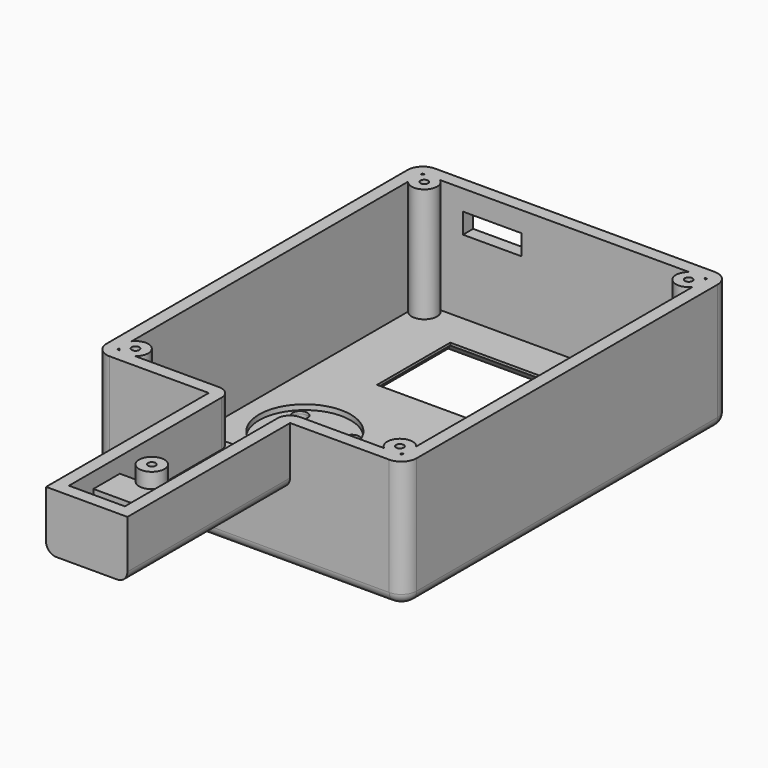
from build123d import *

# Parameters (mm, degrees)
PAD002_DEPTH        = 25
THICKNESS_T         = -2.5
SKETCH003_W         = 33
SKETCH003_H         = 18
POCKET_DEPTH        = 5
CHAMFER_SIZE        = 2
SKETCH004_W         = 19
SKETCH004_H         = 12.5
POCKET001_DEPTH     = 5
SKETCH005_R         = 2
POCKET002_DEPTH     = 5
SKETCH006_W         = 11.5
SKETCH006_H         = 4
POCKET003_DEPTH     = 5
SKETCH007_R         = 8.75
POCKET004_DEPTH     = 1
SKETCH011_W         = 40
SKETCH011_H         = 16
POCKET005_DEPTH     = 38.501
SKETCH012_W         = 16
SKETCH012_H         = 40
PAD005_DEPTH        = 2.5
SKETCH013_W         = 16
SKETCH013_H         = 13.5
PAD006_DEPTH        = 2.5
PAD007_DEPTH        = 2.5
SKETCH014_W         = 11
SKETCH014_H         = 6
POCKET006_DEPTH     = 2.5
SKETCH015_W         = 11
SKETCH015_H         = 2.5
PAD008_DEPTH        = 6
SKETCH016_R         = 2.5
PAD009_DEPTH        = 22.5
SKETCH017_R         = 0.75
POCKET007_DEPTH     = 18
SKETCH018_R         = 2.5
SKETCH018_R_2       = 0.75
PAD010_DEPTH        = 9
FILLET001_R         = 3
FILLET002_R         = 3
FILLET003_R         = 3
FILLET005_R         = 2
SKETCH020_R         = 1.45
POCKET009_DEPTH     = 5
FILLET006_R         = 2
FILLET006_FACE100_W = 11
FILLET006_FACE100_H = 6
PAD011_DEPTH        = 4
PAD011_FACE78_R     = 8.75
PAD011_FACE78_R_2   = 1.45
PAD012_DEPTH        = 1
SKETCH021_R         = 9
POCKET010_DEPTH     = 1


with BuildPart() as part:
    # Sketch002 → Pad002 (new body)
    with BuildSketch(Plane.XY):
        Polygon((-10, 80), (-71, 80), (-71, 0), (-48.5, 0), (-48.5, -40), (-32.5, -40), (-32.5, 0), (-10, 0), align=None)
    extrude(amount=PAD002_DEPTH)

    # Thickness
    thickness_openings = [part.faces().sort_by_distance(p)[0] for p in [
        (-40.5, 33.043478, 25),
    ]]
    offset(amount=THICKNESS_T, openings=thickness_openings)

    # Sketch003 (on Face9 of Thickness) → Pocket (cut)
    with BuildSketch(Plane(origin=(0, 0, 0), x_dir=(1, 0, 0), z_dir=(0, 0, -1))):
        with Locations((-40.5, -61)):
            Rectangle(SKETCH003_W, SKETCH003_H)
    extrude(amount=-POCKET_DEPTH, mode=Mode.SUBTRACT)

    # Chamfer
    chamfer_edges = [part.edges().sort_by_distance(p)[0] for p in [
        (-40.5, 70, 0),
        (-57, 61, 0),
        (-40.5, 52, 0),
        (-24, 61, 0),
    ]]
    chamfer(chamfer_edges, length=CHAMFER_SIZE)

    # Sketch004 (on Face1 of Chamfer) → Pocket001 (cut)
    with BuildSketch(Plane(origin=(0, 0, 0), x_dir=(1, 0, 0), z_dir=(0, 0, -1))):
        with Locations((-29.5, -11.25)):
            Rectangle(SKETCH004_W, SKETCH004_H)
    extrude(amount=-POCKET001_DEPTH, mode=Mode.SUBTRACT)

    # Sketch005 (on Face1 of Pocket001) → Pocket002 (cut)
    with BuildSketch(Plane(origin=(0, 0, 0), x_dir=(1, 0, 0), z_dir=(0, 0, -1))):
        with Locations((-56, -12)):
            Circle(SKETCH005_R)
    extrude(amount=-POCKET002_DEPTH, mode=Mode.SUBTRACT)

    # Sketch006 (on Face26 of Pocket002) → Pocket003 (cut)
    with BuildSketch(Plane.XZ.offset(-77.5)):
        with Locations((-54.75, 19)):
            Rectangle(SKETCH006_W, SKETCH006_H)
    extrude(amount=-POCKET003_DEPTH, mode=Mode.SUBTRACT)

    # Sketch007 (on Face1 of Pocket003) → Pocket004 (cut)
    with BuildSketch(Plane(origin=(0, 0, 0), x_dir=(1, 0, 0), z_dir=(0, 0, -1))):
        with Locations((-56, -33)):
            Circle(SKETCH007_R)
    extrude(amount=-POCKET004_DEPTH, mode=Mode.SUBTRACT)

    # Sketch011 (on Face8 of Pocket004) → Pocket005 (cut, through all)
    with BuildSketch(Plane(origin=(-48.5, 0, 0), x_dir=(0, -1, 0), z_dir=(-1, 0, 0))):
        with Locations((20, 8)):
            Rectangle(SKETCH011_W, SKETCH011_H)
    extrude(amount=-POCKET005_DEPTH, mode=Mode.SUBTRACT)

    # Sketch012 (on Face20 of Pocket005) → Pad005 (join)
    with BuildSketch(Plane(origin=(0, 0, 16), x_dir=(1, 0, 0), z_dir=(0, 0, -1))):
        with Locations((-40.5, 20)):
            Rectangle(SKETCH012_W, SKETCH012_H)
    extrude(amount=PAD005_DEPTH)

    # Sketch013 (on Face4 of Pad005) → Pad006 (join)
    with BuildSketch(Plane.XZ):
        with Locations((-40.5, 6.75)):
            Rectangle(SKETCH013_W, SKETCH013_H)
    extrude(amount=-PAD006_DEPTH)

    # Pad006 Face50 → Pad007 (add)
    with BuildSketch(Plane(origin=(-40.5, 1.311465, 13.5), x_dir=(0, 1, 0), z_dir=(0, 0, 1))):
        with BuildLine():
            ThreePointArc((1.188535, 8), (0.456302, 6.232233), (-1.311465, 5.5))
            Line((-1.311465, 5.5), (-1.311465, -5.5))
            ThreePointArc((-1.311465, -5.5), (0.456302, -6.232233), (1.188535, -8))
            Line((1.188535, -8), (1.188535, 8))
        make_face()
    extrude(amount=PAD007_DEPTH)

    # Sketch014 (on Face35 of Pad007) → Pocket006 (cut)
    with BuildSketch(Plane(origin=(0, 0, 13.5), x_dir=(1, 0, 0), z_dir=(0, 0, -1))):
        with Locations((-40.5, 34.5)):
            Rectangle(SKETCH014_W, SKETCH014_H)
    extrude(amount=-POCKET006_DEPTH, mode=Mode.SUBTRACT)

    # Sketch015 (on Face56 of Pocket006) → Pad008 (join)
    with BuildSketch(Plane.XY.offset(16)):
        with Locations((-40.5, -30.25)):
            Rectangle(SKETCH015_W, SKETCH015_H)
    extrude(amount=PAD008_DEPTH)

    # Sketch016 (on Face28 of Pad008) → Pad009 (join)
    with BuildSketch(Plane.XY.offset(2.5)):
        with Locations((-66.5, 75.5)):
            Circle(SKETCH016_R)
        with Locations((-14.5, 75.5)):
            Circle(SKETCH016_R)
        with Locations((-66.5, 4.5)):
            Circle(SKETCH016_R)
        with Locations((-14.5, 4.5)):
            Circle(SKETCH016_R)
    extrude(amount=PAD009_DEPTH)

    # Sketch017 (on Face79 of Pad009) → Pocket007 (cut)
    with BuildSketch(Plane.XY.offset(25)):
        with Locations((-66.5, 4.5)):
            Circle(SKETCH017_R)
        with Locations((-14.5, 4.5)):
            Circle(SKETCH017_R)
        with Locations((-14.5, 75.5)):
            Circle(SKETCH017_R)
        with Locations((-66.5, 75.5)):
            Circle(SKETCH017_R)
    extrude(amount=-POCKET007_DEPTH, mode=Mode.SUBTRACT)

    # Sketch018 (on Face84 of Pocket007) → Pad010 (join)
    with BuildSketch(Plane.XY.offset(16)):
        with Locations((-40.5, -24)):
            Circle(SKETCH018_R)
        with Locations((-40.5, -24)):
            Circle(SKETCH018_R_2, mode=Mode.SUBTRACT)
    extrude(amount=PAD010_DEPTH)

    # Fillet001
    fillet001_edges = [part.edges().sort_by_distance(p)[0] for p in [
        (-71, 80, 12.5),
    ]]
    fillet(fillet001_edges, radius=FILLET001_R)

    # Fillet002
    fillet002_edges = [part.edges().sort_by_distance(p)[0] for p in [
        (-10, 80, 12.5),
    ]]
    fillet(fillet002_edges, radius=FILLET002_R)

    # Fillet003
    fillet003_edges = [part.edges().sort_by_distance(p)[0] for p in [
        (-10, 0, 8),
        (-10, 0, 20.5),
        (-71, 0, 12.5),
    ]]
    fillet(fillet003_edges, radius=FILLET003_R)

    # Fillet005
    fillet005_edges = [part.edges().sort_by_distance(p)[0] for p in [
        (-32.5, -20, 13.5),
        (-48.5, -20, 13.5),
    ]]
    fillet(fillet005_edges, radius=FILLET005_R)

    # Sketch020 (on Face71 of Fillet005) → Pocket009 (cut)
    with BuildSketch(Plane(origin=(0, 0, 1), x_dir=(1, 0, 0), z_dir=(0, 0, -1))):
        with Locations((-58.774455, -26.301873)):
            Circle(SKETCH020_R)
        with Locations((-53.225545, -26.301873)):
            Circle(SKETCH020_R)
        with Locations((-49.954328, -37.001543)):
            Circle(SKETCH020_R)
        with Locations((-61.081592, -38.171066)):
            Circle(SKETCH020_R)
    extrude(amount=-POCKET009_DEPTH, mode=Mode.SUBTRACT)

    # Fillet006
    fillet006_edges = [part.edges().sort_by_distance(p)[0] for p in [
        (-22.75, 0, 0),
    ]]
    fillet(fillet006_edges, radius=FILLET006_R)

    # Fillet006 Face100 → Pad011 (add)
    with BuildSketch(Plane(origin=(-40.5, -29, 19), x_dir=(1, 0, 0), z_dir=(0, 1, 0))):
        Rectangle(FILLET006_FACE100_W, FILLET006_FACE100_H)
    extrude(amount=PAD011_DEPTH)

    # Pad011 Face78 → Pad012 (add)
    with BuildSketch(Plane(origin=(-56.029742, 33.130299, 1), x_dir=(0, -1, 0), z_dir=(0, 0, -1))):
        with Locations((0.130299, -0.029742)):
            Circle(PAD011_FACE78_R)
        with Locations((6.828426, 2.744713)):
            Circle(PAD011_FACE78_R_2, mode=Mode.SUBTRACT)
        with Locations((6.828426, -2.804197)):
            Circle(PAD011_FACE78_R_2, mode=Mode.SUBTRACT)
        with Locations((-5.040767, 5.05185)):
            Circle(PAD011_FACE78_R_2, mode=Mode.SUBTRACT)
        with Locations((-3.871244, -6.075414)):
            Circle(PAD011_FACE78_R_2, mode=Mode.SUBTRACT)
    extrude(amount=PAD012_DEPTH)

    # Sketch021 (on Face77 of Pad012) → Pocket010 (cut)
    with BuildSketch(Plane.XY.offset(2.5)):
        with Locations((-56, 33)):
            Circle(SKETCH021_R)
    extrude(amount=-POCKET010_DEPTH, mode=Mode.SUBTRACT)


solid = part.part
